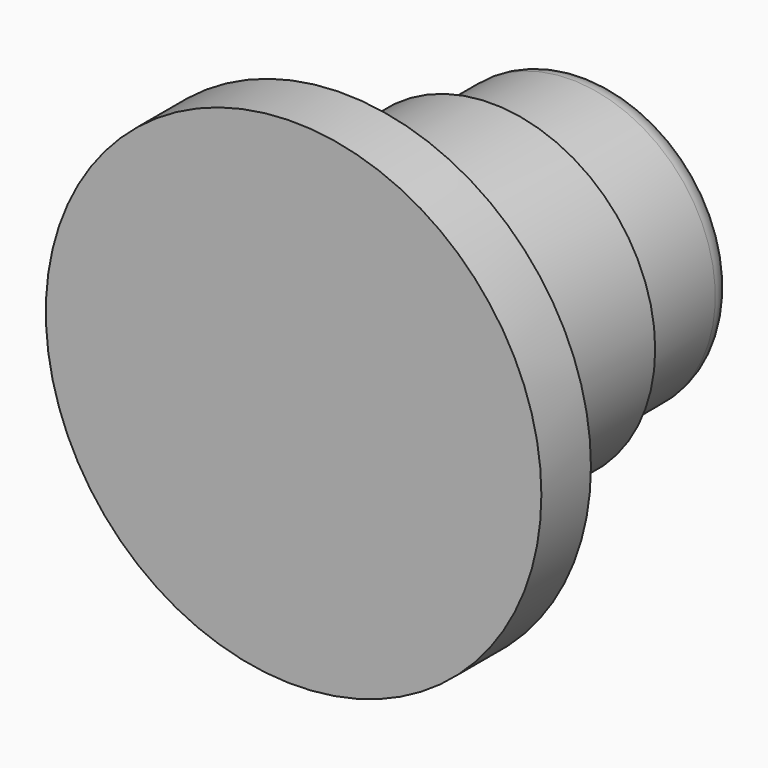
from build123d import *

# Parameters (mm, degrees)
F0_R     = 50.8
F1_DEPTH = 12.7
F2_R     = 33.491229
F3_DEPTH = 38.1
F4_R     = 29.55091
F5_DEPTH = 25.4
F6_R     = 5.08


with BuildPart() as f1:
    # F0 (on Front) → F1 (new body)
    with BuildSketch(Plane.XZ):
        Circle(F0_R)
    extrude(amount=F1_DEPTH)

    # F2 (on Front) → F3 (join)
    with BuildSketch(Plane.XZ):
        Circle(F2_R)
    extrude(amount=-F3_DEPTH)

    # F4 (on face) → F5 (join)
    with BuildSketch(Plane(origin=(0, 38.1, 0), x_dir=(-1, 0, 0), z_dir=(0, 1, 0))):
        Circle(F4_R)
    extrude(amount=F5_DEPTH)

    # F6
    f6_edges = [f1.edges().sort_by_distance(p)[0] for p in [
        (29.55091, 63.5, 0),
    ]]
    fillet(f6_edges, radius=F6_R)


solid = f1.part
